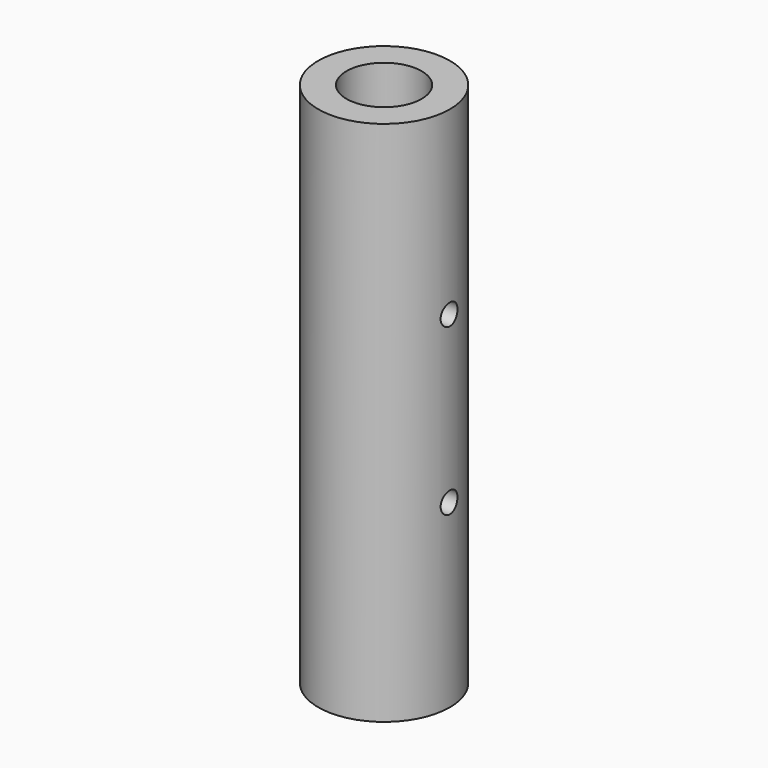
from build123d import *

# Parameters (mm, degrees)
F0_R          = 11.1125
F1_DEPTH      = 44.45
F2_R          = 6.35
F3_DEPTH      = 88.9
F4_R          = 1.778
F5_DEPTH      = 11.1135
F5_DEPTH_BACK = 11.1135


with BuildPart() as f1:
    # F0 (on Top) → F1 (new body, symmetric)
    with BuildSketch(Plane.XY):
        Circle(F0_R)
    extrude(amount=F1_DEPTH, both=True)

    # F2 (on face) → F3 (cut, through all)
    with BuildSketch(Plane.XY.offset(44.45)):
        Circle(F2_R)
    extrude(amount=-F3_DEPTH, mode=Mode.SUBTRACT)

    # F4 (on Right) → F5 (cut, two sides)
    with BuildSketch(Plane.YZ) as f5_sk:
        with Locations((0, -13.97)):
            Circle(F4_R)
        with Locations((0, 13.97)):
            Circle(F4_R)
    extrude(amount=F5_DEPTH, mode=Mode.SUBTRACT)
    extrude(f5_sk.sketch, amount=-F5_DEPTH_BACK, mode=Mode.SUBTRACT)


solid = f1.part
